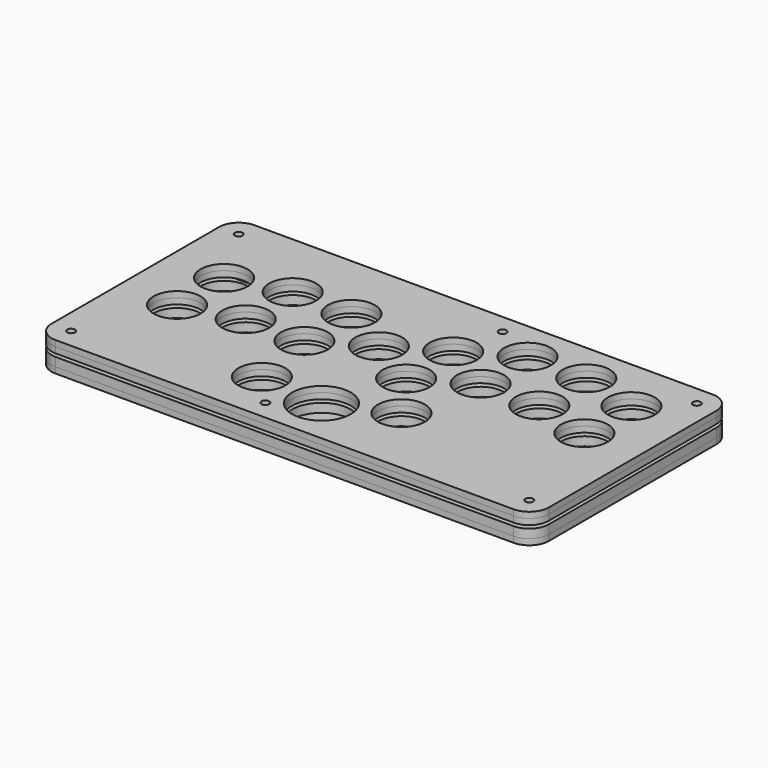
from build123d import *

# Parameters (mm, degrees)
SKETCH_R         = 12
SKETCH_R_2       = 15
SKETCH_R_3       = 2
SKETCH_W         = 26.9
SKETCH_H         = 21.46
EXTRUDE_DEPTH    = 3
SKETCH001_R      = 12
SKETCH001_R_2    = 15
SKETCH001_R_3    = 2
SKETCH001_W      = 26.9
SKETCH001_H      = 21.46
EXTRUDE001_DEPTH = 4.5
SKETCH002_R      = 2
EXTRUDE002_DEPTH = 3
SKETCH003_R      = 12
SKETCH003_R_2    = 15
SKETCH003_R_3    = 2
EXTRUDE003_DEPTH = 3


with BuildPart() as extrude_body:
    # Sketch → Extrude (new body)
    with BuildSketch(Plane.XY):
        with BuildLine():
            Line((10, 127), (244, 127))
            ThreePointArc((254, 117), (251.071068, 124.071068), (244, 127))
            Line((254, 117), (254, 10))
            ThreePointArc((244, 0), (251.071068, 2.928932), (254, 10))
            Line((244, 0), (10, 0))
            ThreePointArc((0, 10), (2.928932, 2.928932), (10, 0))
            Line((0, 10), (0, 117))
            ThreePointArc((10, 127), (2.928932, 124.071068), (0, 117))
        make_face()
        with Locations((165.971143, 76.415932)):
            Circle(SKETCH_R, mode=Mode.SUBTRACT)
        with Locations((195.971143, 76.415932)):
            Circle(SKETCH_R, mode=Mode.SUBTRACT)
        with Locations((165.971143, 106.415932)):
            Circle(SKETCH_R, mode=Mode.SUBTRACT)
        with Locations((195.971143, 106.415932)):
            Circle(SKETCH_R, mode=Mode.SUBTRACT)
        with Locations((225.018518, 98.915932)):
            Circle(SKETCH_R, mode=Mode.SUBTRACT)
        with Locations((225.018518, 68.915932)):
            Circle(SKETCH_R, mode=Mode.SUBTRACT)
        with Locations((139.990381, 91.415932)):
            Circle(SKETCH_R, mode=Mode.SUBTRACT)
        with Locations((139.990381, 61.415932)):
            Circle(SKETCH_R, mode=Mode.SUBTRACT)
        with Locations((114.009619, 76.415932)):
            Circle(SKETCH_R, mode=Mode.SUBTRACT)
        with Locations((88.028857, 91.415932)):
            Circle(SKETCH_R, mode=Mode.SUBTRACT)
        with Locations((58.028857, 91.415932)):
            Circle(SKETCH_R, mode=Mode.SUBTRACT)
        with Locations((127, 23.584068)):
            Circle(SKETCH_R_2, mode=Mode.SUBTRACT)
        with Locations((28.981482, 83.915932)):
            Circle(SKETCH_R, mode=Mode.SUBTRACT)
        with Locations((28.981482, 53.915932)):
            Circle(SKETCH_R, mode=Mode.SUBTRACT)
        with Locations((58.028857, 61.415932)):
            Circle(SKETCH_R, mode=Mode.SUBTRACT)
        with Locations((88.028857, 61.415932)):
            Circle(SKETCH_R, mode=Mode.SUBTRACT)
        with Locations((157.214692, 36.853296)):
            Circle(SKETCH_R, mode=Mode.SUBTRACT)
        with Locations((94.136647, 26.584068)):
            Circle(SKETCH_R, mode=Mode.SUBTRACT)
        with Locations((10, 117)):
            Circle(SKETCH_R_3, mode=Mode.SUBTRACT)
        with Locations((244, 117)):
            Circle(SKETCH_R_3, mode=Mode.SUBTRACT)
        with Locations((244, 10)):
            Circle(SKETCH_R_3, mode=Mode.SUBTRACT)
        with Locations((10, 10)):
            Circle(SKETCH_R_3, mode=Mode.SUBTRACT)
        with Locations((109.191343, 10)):
            Circle(SKETCH_R_3, mode=Mode.SUBTRACT)
        with Locations((144.808657, 117)):
            Circle(SKETCH_R_3, mode=Mode.SUBTRACT)
        with Locations((30.972, 108.37)):
            Rectangle(SKETCH_W, SKETCH_H, mode=Mode.SUBTRACT)
    extrude(amount=EXTRUDE_DEPTH)


with BuildPart() as extrude_body_1:
    # Extrude placement: moved
    add(extrude_body.part.moved(Location((0, 0, 0.8))))


with BuildPart() as extrude001:
    # Sketch001 → Extrude001 (new body)
    with BuildSketch(Plane.XY):
        with BuildLine():
            Line((254, 117), (254, 10))
            ThreePointArc((244, 0), (251.071068, 2.928932), (254, 10))
            Line((244, 0), (10, 0))
            ThreePointArc((0, 10), (2.928932, 2.928932), (10, 0))
            Line((0, 10), (0, 117))
            ThreePointArc((10, 127), (2.928932, 124.071068), (0, 117))
            Line((10, 127), (17.522, 127))
            Line((17.522, 123.25), (17.522, 127))
            Line((25.372, 123.25), (17.522, 123.25))
            Line((25.372, 127), (25.372, 123.25))
            Line((25.372, 127), (36.572, 127))
            Line((36.572, 123.25), (36.572, 127))
            Line((44.422, 123.25), (36.572, 123.25))
            Line((44.422, 127), (44.422, 123.25))
            Line((44.422, 127), (81.984619, 127))
            Line((81.984619, 118.4), (81.984619, 127))
            Line((95.234619, 118.4), (81.984619, 118.4))
            Line((95.234619, 127), (95.234619, 118.4))
            Line((95.234619, 127), (109.539619, 127))
            Line((109.539619, 119.41), (109.539619, 127))
            Line((118.479619, 119.41), (109.539619, 119.41))
            Line((118.479619, 127), (118.479619, 119.41))
            Line((118.479619, 127), (244, 127))
            ThreePointArc((254, 117), (251.071068, 124.071068), (244, 127))
        make_face()
        with Locations((165.971143, 76.415932)):
            Circle(SKETCH001_R, mode=Mode.SUBTRACT)
        with Locations((195.971143, 76.415932)):
            Circle(SKETCH001_R, mode=Mode.SUBTRACT)
        with Locations((165.971143, 106.415932)):
            Circle(SKETCH001_R, mode=Mode.SUBTRACT)
        with Locations((195.971143, 106.415932)):
            Circle(SKETCH001_R, mode=Mode.SUBTRACT)
        with Locations((225.018518, 98.915932)):
            Circle(SKETCH001_R, mode=Mode.SUBTRACT)
        with Locations((225.018518, 68.915932)):
            Circle(SKETCH001_R, mode=Mode.SUBTRACT)
        with Locations((139.990381, 91.415932)):
            Circle(SKETCH001_R, mode=Mode.SUBTRACT)
        with Locations((139.990381, 61.415932)):
            Circle(SKETCH001_R, mode=Mode.SUBTRACT)
        with Locations((114.009619, 76.415932)):
            Circle(SKETCH001_R, mode=Mode.SUBTRACT)
        with Locations((88.028857, 91.415932)):
            Circle(SKETCH001_R, mode=Mode.SUBTRACT)
        with Locations((58.028857, 91.415932)):
            Circle(SKETCH001_R, mode=Mode.SUBTRACT)
        with Locations((127, 23.584068)):
            Circle(SKETCH001_R_2, mode=Mode.SUBTRACT)
        with Locations((28.981482, 83.915932)):
            Circle(SKETCH001_R, mode=Mode.SUBTRACT)
        with Locations((28.981482, 53.915932)):
            Circle(SKETCH001_R, mode=Mode.SUBTRACT)
        with Locations((58.028857, 61.415932)):
            Circle(SKETCH001_R, mode=Mode.SUBTRACT)
        with Locations((88.028857, 61.415932)):
            Circle(SKETCH001_R, mode=Mode.SUBTRACT)
        with Locations((157.214692, 36.853296)):
            Circle(SKETCH001_R, mode=Mode.SUBTRACT)
        with Locations((94.136647, 26.584068)):
            Circle(SKETCH001_R, mode=Mode.SUBTRACT)
        with Locations((10, 117)):
            Circle(SKETCH001_R_3, mode=Mode.SUBTRACT)
        with Locations((244, 117)):
            Circle(SKETCH001_R_3, mode=Mode.SUBTRACT)
        with Locations((244, 10)):
            Circle(SKETCH001_R_3, mode=Mode.SUBTRACT)
        with Locations((10, 10)):
            Circle(SKETCH001_R_3, mode=Mode.SUBTRACT)
        with Locations((109.191343, 10)):
            Circle(SKETCH001_R_3, mode=Mode.SUBTRACT)
        with Locations((144.808657, 117)):
            Circle(SKETCH001_R_3, mode=Mode.SUBTRACT)
        with Locations((30.972, 108.37)):
            Rectangle(SKETCH001_W, SKETCH001_H, mode=Mode.SUBTRACT)
    extrude(amount=-EXTRUDE001_DEPTH)


with BuildPart() as extrude001_1:
    # Extrude001 placement: moved
    add(extrude001.part.moved(Location((0, 0, -0.8))))


with BuildPart() as extrude002:
    # Sketch002 → Extrude002 (new body)
    with BuildSketch(Plane.XY):
        with BuildLine():
            Line((254, 116.98777), (254, 10))
            ThreePointArc((244, 0), (251.071068, 2.928932), (254, 10))
            Line((244, 0), (10, 0))
            ThreePointArc((0, 10), (2.928932, 2.928932), (10, 0))
            Line((0, 10), (0, 117))
            ThreePointArc((10, 127), (2.928932, 124.071068), (0, 117))
            Line((10, 127), (81.984619, 127))
            Line((81.984619, 127), (81.984619, 118.4))
            Line((81.984619, 118.4), (95.234619, 118.4))
            Line((95.234619, 118.4), (95.234619, 126.98777))
            Line((95.234619, 126.98777), (244, 126.98777))
            ThreePointArc((254, 116.98777), (251.071068, 124.058838), (244, 126.98777))
        make_face()
        with Locations((10, 117)):
            Circle(SKETCH002_R, mode=Mode.SUBTRACT)
        with Locations((244, 116.98777)):
            Circle(SKETCH002_R, mode=Mode.SUBTRACT)
        with Locations((244, 10)):
            Circle(SKETCH002_R, mode=Mode.SUBTRACT)
        with Locations((10, 10)):
            Circle(SKETCH002_R, mode=Mode.SUBTRACT)
        with Locations((109.191343, 10)):
            Circle(SKETCH002_R, mode=Mode.SUBTRACT)
        with Locations((144.808657, 117)):
            Circle(SKETCH002_R, mode=Mode.SUBTRACT)
    extrude(amount=-EXTRUDE002_DEPTH)


with BuildPart() as extrude002_1:
    # Extrude002 placement: moved
    add(extrude002.part.moved(Location((0, 0, -5.3))))


with BuildPart() as extrude003:
    # Sketch003 → Extrude003 (new body)
    with BuildSketch(Plane.XY):
        with BuildLine():
            Line((10, 127), (244, 127))
            ThreePointArc((254, 117), (251.071068, 124.071068), (244, 127))
            Line((254, 117), (254, 10))
            ThreePointArc((244, 0), (251.071068, 2.928932), (254, 10))
            Line((244, 0), (10, 0))
            ThreePointArc((0, 10), (2.928932, 2.928932), (10, 0))
            Line((0, 10), (0, 117))
            ThreePointArc((10, 127), (2.928932, 124.071068), (0, 117))
        make_face()
        with Locations((165.971143, 76.415932)):
            Circle(SKETCH003_R, mode=Mode.SUBTRACT)
        with Locations((195.971143, 76.415932)):
            Circle(SKETCH003_R, mode=Mode.SUBTRACT)
        with Locations((165.971143, 106.415932)):
            Circle(SKETCH003_R, mode=Mode.SUBTRACT)
        with Locations((195.971143, 106.415932)):
            Circle(SKETCH003_R, mode=Mode.SUBTRACT)
        with Locations((225.018518, 98.915932)):
            Circle(SKETCH003_R, mode=Mode.SUBTRACT)
        with Locations((225.018518, 68.915932)):
            Circle(SKETCH003_R, mode=Mode.SUBTRACT)
        with Locations((139.990381, 91.415932)):
            Circle(SKETCH003_R, mode=Mode.SUBTRACT)
        with Locations((139.990381, 61.415932)):
            Circle(SKETCH003_R, mode=Mode.SUBTRACT)
        with Locations((114.009619, 76.415932)):
            Circle(SKETCH003_R, mode=Mode.SUBTRACT)
        with Locations((88.028857, 91.415932)):
            Circle(SKETCH003_R, mode=Mode.SUBTRACT)
        with Locations((58.028857, 91.415932)):
            Circle(SKETCH003_R, mode=Mode.SUBTRACT)
        with Locations((127, 23.584068)):
            Circle(SKETCH003_R_2, mode=Mode.SUBTRACT)
        with Locations((28.981482, 83.915932)):
            Circle(SKETCH003_R, mode=Mode.SUBTRACT)
        with Locations((28.981482, 53.915932)):
            Circle(SKETCH003_R, mode=Mode.SUBTRACT)
        with Locations((58.028857, 61.415932)):
            Circle(SKETCH003_R, mode=Mode.SUBTRACT)
        with Locations((88.028857, 61.415932)):
            Circle(SKETCH003_R, mode=Mode.SUBTRACT)
        with Locations((157.214692, 36.853296)):
            Circle(SKETCH003_R, mode=Mode.SUBTRACT)
        with Locations((94.136647, 26.584068)):
            Circle(SKETCH003_R, mode=Mode.SUBTRACT)
        with Locations((10, 117)):
            Circle(SKETCH003_R_3, mode=Mode.SUBTRACT)
        with Locations((244, 117)):
            Circle(SKETCH003_R_3, mode=Mode.SUBTRACT)
        with Locations((244, 10)):
            Circle(SKETCH003_R_3, mode=Mode.SUBTRACT)
        with Locations((10, 10)):
            Circle(SKETCH003_R_3, mode=Mode.SUBTRACT)
        with Locations((109.191343, 10)):
            Circle(SKETCH003_R_3, mode=Mode.SUBTRACT)
        with Locations((144.808657, 117)):
            Circle(SKETCH003_R_3, mode=Mode.SUBTRACT)
    extrude(amount=EXTRUDE003_DEPTH)


with BuildPart() as extrude003_1:
    # Extrude003 placement: moved
    add(extrude003.part.moved(Location((0, 0, 3.8))))


solid = Compound([extrude_body_1.part, extrude001_1.part, extrude002_1.part, extrude003_1.part])
